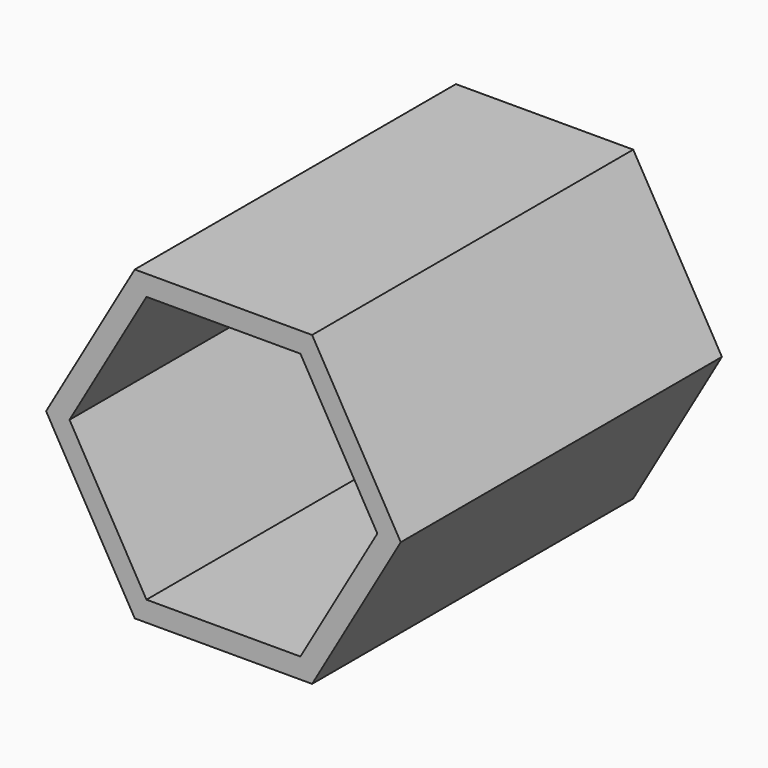
from build123d import *

# Parameters (mm, degrees)
F1_DEPTH = 177.8
F3_DEPTH = 152.4


with BuildPart() as f1:
    # F0 (on Front) → F1 (new body)
    with BuildSketch(Plane.XZ):
        Polygon((39.275538, 68.027228), (-39.275538, 68.027228), (-78.551077, 0), (-39.275538, -68.027228), (39.275538, -68.027228), (78.551077, 0), align=None)
    extrude(amount=F1_DEPTH)

    # F2 (on face) → F3 (cut)
    with BuildSketch(Plane.XZ.offset(177.8)):
        Polygon((34.086841, 59.04014), (-34.086841, 59.04014), (-68.173682, 0), (-34.086841, -59.04014), (34.086841, -59.04014), (68.173682, 0), align=None)
    extrude(amount=-F3_DEPTH, mode=Mode.SUBTRACT)


solid = f1.part
